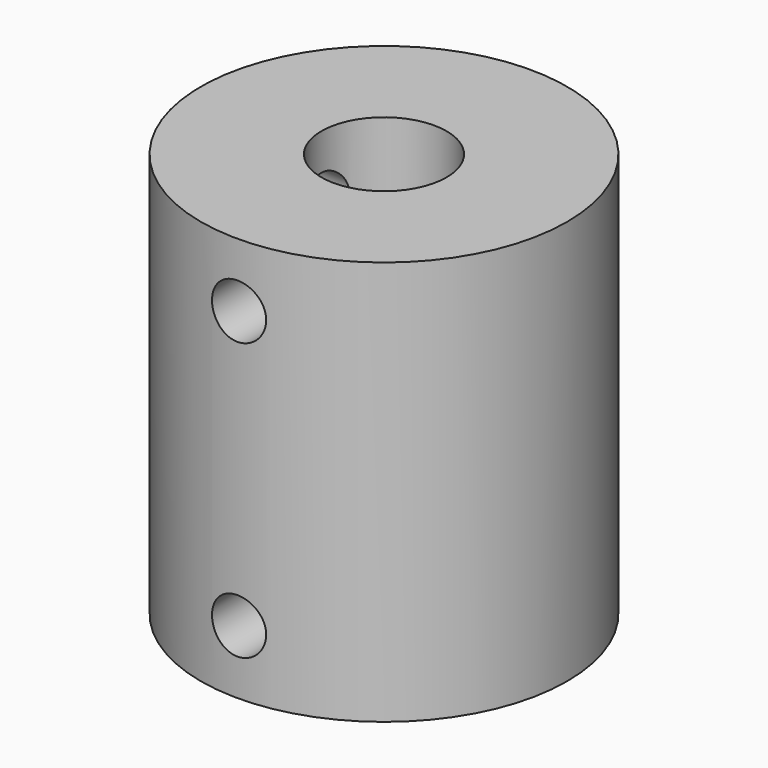
from build123d import *

# Parameters (mm, degrees)
SKETCH_R                 = 11.5
SKETCH_R_2               = 3.93
PAD_DEPTH                = 25.4
SKETCH001_R              = 4.9
POCKET_DEPTH             = 12.7
SKETCH002_R              = 1.7
POCKET001_DEPTH          = 11.501
SKETCH003_R              = 1.7
POCKET002_DEPTH          = 11.501
CLONE001_PLACEMENT_ANGLE = 180


with BuildPart() as part:
    # Sketch → Pad (new body)
    with BuildSketch(Plane.XY):
        Circle(SKETCH_R)
        Circle(SKETCH_R_2, mode=Mode.SUBTRACT)
    extrude(amount=PAD_DEPTH)

    # Sketch001 (on Face4 of Pad) → Pocket (cut)
    with BuildSketch(Plane.XY.offset(25.4)):
        Circle(SKETCH001_R)
    extrude(amount=-POCKET_DEPTH, mode=Mode.SUBTRACT)

    # Sketch002 → Pocket001 (cut, through all)
    with BuildSketch(Plane.XZ):
        with Locations((0, 4)):
            Circle(SKETCH002_R)
        with Locations((0, 21.4)):
            Circle(SKETCH002_R)
    extrude(amount=-POCKET001_DEPTH, mode=Mode.SUBTRACT)

    # Sketch003 → Pocket002 (cut, through all)
    with BuildSketch(Plane.YZ):
        with Locations((0, 4)):
            Circle(SKETCH003_R)
        with Locations((0, 21.4)):
            Circle(SKETCH003_R)
    extrude(amount=-POCKET002_DEPTH, mode=Mode.SUBTRACT)


with BuildPart() as part_1:
    # Clone001 placement: moved
    add(part.part.moved(Location((0, 0, -11))).rotate(Axis((0, 0, -11), (1, 0, 0)), CLONE001_PLACEMENT_ANGLE))


solid = part_1.part
